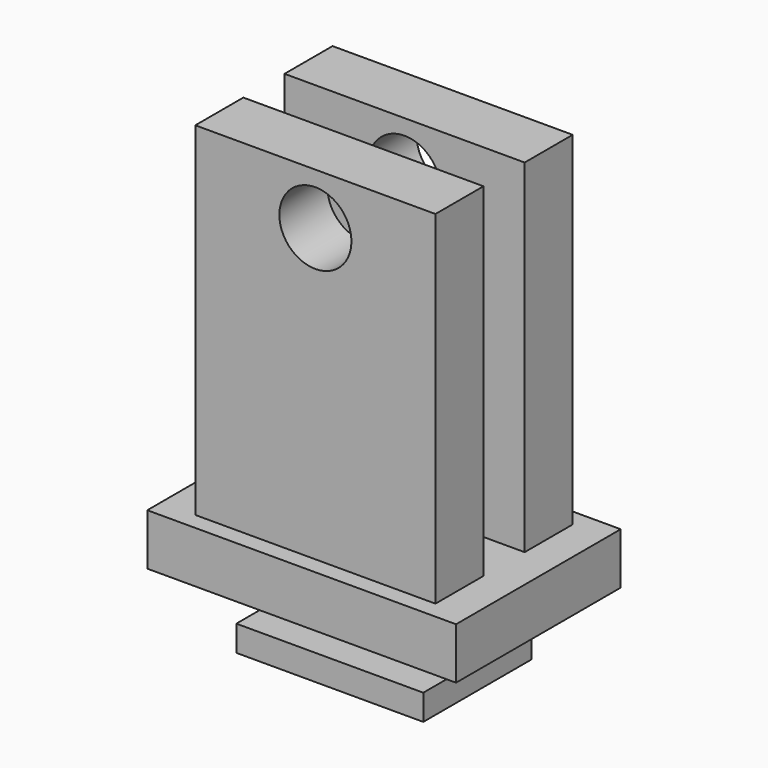
from build123d import *

# Parameters (mm, degrees)
F0_W      = 18
F0_H      = 12
F1_DEPTH  = 1.5
F2_W      = 14
F2_H      = 10
F3_DEPTH  = 20
F4_W      = 3
F4_H      = 20
F5_DEPTH  = 25
F7_D      = 4.2
F8_W      = 10.9
F8_H      = 2.4
F9_DEPTH  = 2.5
F10_W     = 10.9
F10_H     = 2.75
F10_H_2   = 2.4
F11_DEPTH = 1.5


with BuildPart() as f1:
    # F0 (on Top) → F1 (new body, symmetric)
    with BuildSketch(Plane.XY):
        Rectangle(F0_W, F0_H)
    extrude(amount=F1_DEPTH, both=True)

    # F2 (on face) → F3 (join)
    with BuildSketch(Plane.XY.offset(1.5)):
        Rectangle(F2_W, F2_H)
    extrude(amount=F3_DEPTH)

    # F4 (on face) → F5 (cut)
    with BuildSketch(Plane.YZ.offset(7)):
        with Locations((0, 11.5)):
            Rectangle(F4_W, F4_H)
    extrude(amount=-F5_DEPTH, mode=Mode.SUBTRACT)

    # F7 (through all)
    with Locations(Plane.XZ.offset(5)):
        with Locations((0, 18.5)):
            Hole(F7_D / 2)

    # F8 (on face) → F9 (join)
    with BuildSketch(Plane(origin=(0, 0, -1.5), x_dir=(1, 0, 0), z_dir=(0, 0, -1))):
        Rectangle(F8_W, F8_H)
    extrude(amount=F9_DEPTH)

    # F10 (on face) → F11 (join)
    with BuildSketch(Plane(origin=(0, 0, -4), x_dir=(1, 0, 0), z_dir=(0, 0, -1))):
        with Locations((0, -2.575)):
            Rectangle(F10_W, F10_H)
        Rectangle(F10_W, F10_H_2)
        with Locations((0, 2.575)):
            Rectangle(F10_W, F10_H)
    extrude(amount=F11_DEPTH)


solid = f1.part
